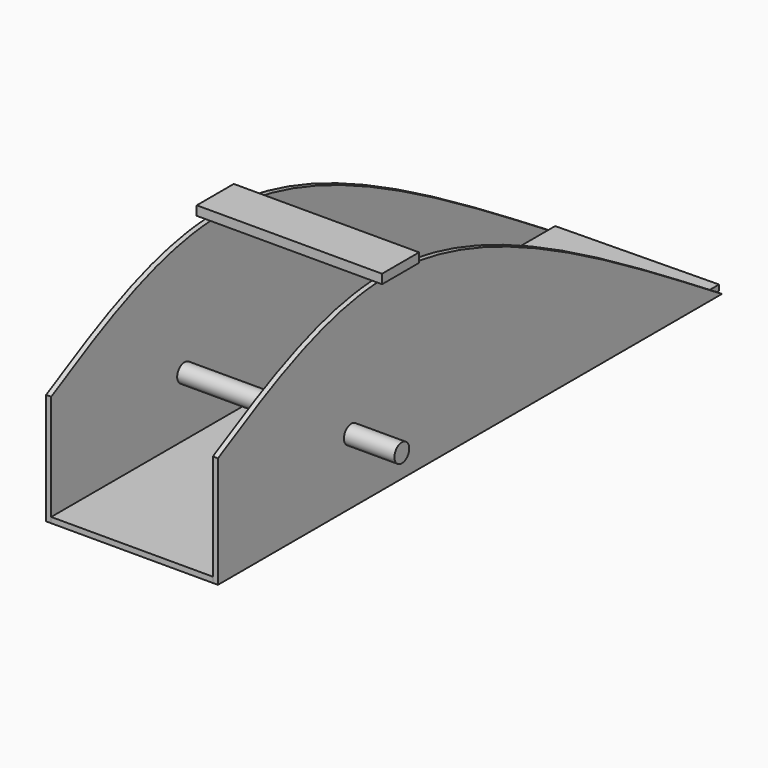
from build123d import *

# Parameters (mm, degrees)
F1_DEPTH  = 1.74621
F4_DEPTH  = 1.905
F6_R      = 3.175
F7_DEPTH  = 58.8972101
F5_W      = 63.5
F5_H      = 15.875
F8_DEPTH  = 3.175
F9_R      = 3.175
F10_DEPTH = 61.8395109511
F11_DEPTH = 76.2


with BuildPart() as f1:
    # F0 (on Right) → F1 (new body)
    with BuildSketch(Plane.YZ):
        with BuildLine():
            add(Edge.make_bspline(
                [(-28.9664380252, 31.75), (10.8579386516, 29.2793732296), (59.4039693258, -1.2353133852), (107.95, -31.75)],
                knots=[0.4257293713, 0.4257293713, 0.4257293713, 0.4257293713, 1, 1, 1, 1], degree=3))
            Line((-28.9664380252, 31.75), (-39.7336066837, 31.75))
            add(Edge.make_bspline(
                [(-107.95, 6.4195892774), (-86.2854045364, 18.3171054864), (-64.6208090729, 30.2146216955), (-39.7336066837, 31.75)],
                knots=[0, 0, 0, 0, 0.3729567186, 0.3729567186, 0.3729567186, 0.3729567186], degree=3))
            Line((-107.95, 6.4195892774), (-107.95, -31.75))
            Line((-107.95, -31.75), (107.95, -31.75))
        make_face()
    extrude(amount=F1_DEPTH)


with BuildPart() as f2_1:
    # F2: copy of F1
    add(f1.part.moved(Location((-57.15, 0, 0))))


with BuildPart() as f4:
    # F3 (on face) → F4 (new body)
    with BuildSketch(Plane(origin=(0, 0, -31.75), x_dir=(1, 0, 0), z_dir=(0, 0, -1))):
        Polygon((0, 107.95), (-55.40379, 107.95), (-55.40379, -107.95), (0, -108.9111939073), align=None)
    extrude(amount=-F4_DEPTH)


with BuildPart() as f7_tool:
    # F6 (on face) → F7 (new body, through all)
    with BuildSketch(Plane(origin=(-57.15, 0, 0), x_dir=(0, -1, 0), z_dir=(-1, 0, 0))):
        with Locations((50.8, -9.525)):
            Circle(F6_R)
    extrude(amount=-F7_DEPTH)


with BuildPart() as f1_1:
    add(f1.part)

    # F7: cut by f7_tool
    add(f7_tool.part, mode=Mode.SUBTRACT)

    # F9 (on face) → F10 (cut, through all)
    with BuildSketch(Plane.YZ.offset(1.74621)):
        with Locations((-50.8, -9.525)):
            Circle(F9_R)
    extrude(amount=-F10_DEPTH, mode=Mode.SUBTRACT)


with BuildPart() as f2_1_1:
    add(f2_1.part)

    # F7: cut by f7_tool
    add(f7_tool.part, mode=Mode.SUBTRACT)


with BuildPart() as f8:
    # F5 (on face) → F8 (new body)
    with BuildSketch(Plane.XY.offset(31.75)):
        with Locations((-28.3423009511, -31.7961066837)):
            Rectangle(F5_W, F5_H)
    extrude(amount=F8_DEPTH)


with BuildPart() as f11:
    # F6 (on face) → F11 (new body)
    with BuildSketch(Plane(origin=(-57.15, 0, 0), x_dir=(0, -1, 0), z_dir=(-1, 0, 0))):
        with Locations((50.8, -9.525)):
            Circle(F6_R)
    extrude(amount=-F11_DEPTH)


solid = Compound([f4.part, f1_1.part, f2_1_1.part, f8.part, f11.part])
